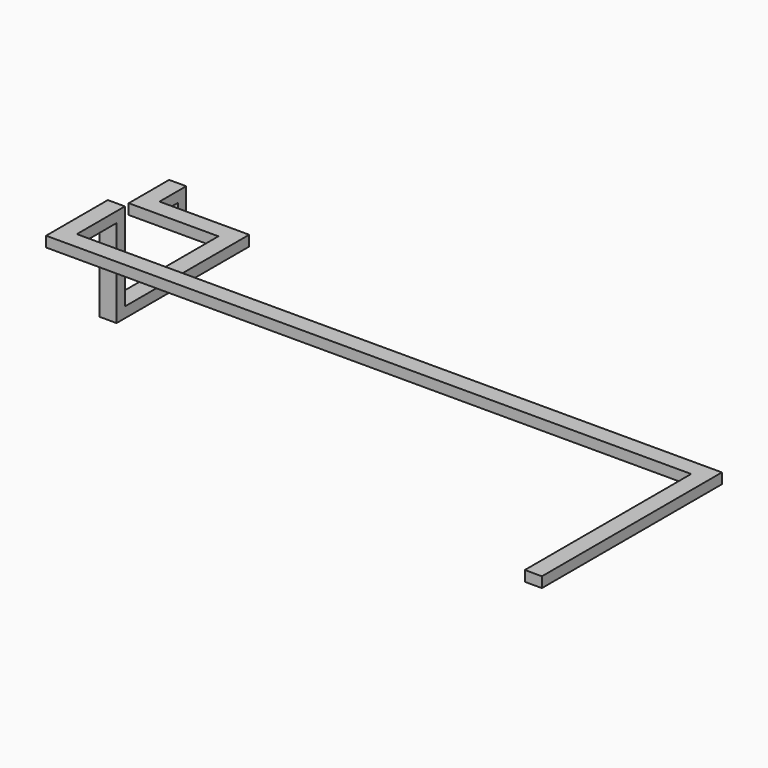
from build123d import *

# Parameters (mm, degrees)
F0_W      = 208.28
F0_H      = 127
F1_DEPTH  = 381
F2_W      = 208.28
F2_H      = 127
F3_DEPTH  = 1524
F4_DEPTH  = 1612.9
F5_W      = 208.28
F5_H      = 127
F6_DEPTH  = 863.6
F7_W      = 127
F7_H      = 208.28
F8_DEPTH  = 7112
F9_DEPTH  = 762
F10_DEPTH = 762
F11_DEPTH = 7112
F12_W     = 208.28
F12_H     = 127
F13_DEPTH = 762
F14_W     = 208.28
F14_H     = 127
F15_DEPTH = 5080
F16_DEPTH = 88.9
F17_DEPTH = 88.9
F18_DEPTH = 120.65
F19_DEPTH = 120.65
F20_DEPTH = 2312.35377
F21_W     = 208.28
F21_H     = 127
F22_DEPTH = 2583.34002
F23_DEPTH = 1557.02
F24_DEPTH = 1557.02
F25_W     = 208.28
F25_H     = 127
F26_DEPTH = 1092.2
F27_W     = 208.28
F27_H     = 127
F28_DEPTH = 1811.02
F29_W     = 208.28
F29_H     = 127
F30_DEPTH = 1073.15
F31_W     = 208.28
F31_H     = 127
F32_DEPTH = 553.72
F33_W     = 208.28
F33_H     = 127
F34_DEPTH = 1811.02
F35_DEPTH = 946.15
F36_DEPTH = 680.72
F37_DEPTH = 1092.2
F38_DEPTH = 76.2
F39_DEPTH = 76.2
F40_DEPTH = 50.8
F41_DEPTH = 50.8


with BuildPart() as f1:
    # F0 (on Top) → F1 (new body)
    with BuildSketch(Plane.XY):
        with Locations((104.14, 63.5)):
            Rectangle(F0_W, F0_H)
    extrude(amount=F1_DEPTH)

    # F2 (on face) → F3 (join)
    with BuildSketch(Plane.XZ):
        with Locations((104.14, 317.5)):
            Rectangle(F2_W, F2_H)
    extrude(amount=F3_DEPTH)

    # F4 (add): a face of the model
    f4_faces = [f1.faces().sort_by_distance(p)[0] for p in [
        (104.14, -1524, 317.5),
    ]]
    extrude(f4_faces, amount=F4_DEPTH)

    # F5 (on face) → F6 (join)
    with BuildSketch(Plane.XY.offset(381)):
        with Locations((104.14, -3073.4)):
            Rectangle(F5_W, F5_H)
    extrude(amount=F6_DEPTH)

    # F7 (on face) → F8 (join)
    with BuildSketch(Plane.YZ.offset(208.28)):
        with Locations((-3073.4, 1140.46)):
            Rectangle(F7_W, F7_H)
    extrude(amount=F8_DEPTH)

    # F9 (add): a face of the model
    f9_faces = [f1.faces().sort_by_distance(p)[0] for p in [
        (3367.9591082803, -3009.9, 1104.9808917197),
    ]]
    extrude(f9_faces, amount=F9_DEPTH)

    # F10 (cut): a face of the model
    f10_faces = [f1.faces().sort_by_distance(p)[0] for p in [
        (3316.8020689655, -3136.9, 1092.6379310345),
    ]]
    extrude(f10_faces, amount=-F10_DEPTH, mode=Mode.SUBTRACT)

    # F11 (cut, through all): a face of the model
    f11_faces = [f1.faces().sort_by_distance(p)[0] for p in [
        (7320.28, -2311.4, 1140.46),
    ]]
    extrude(f11_faces, amount=-F11_DEPTH, mode=Mode.SUBTRACT)

    # F12 (on face) → F13 (join)
    with BuildSketch(Plane.XZ.offset(2374.9)):
        with Locations((104.14, 1181.1)):
            Rectangle(F12_W, F12_H)
    extrude(amount=F13_DEPTH)

    # F14 (on face) → F15 (join)
    with BuildSketch(Plane.YZ.offset(208.28)):
        with Locations((-3032.76, 1181.1)):
            Rectangle(F14_W, F14_H)
    extrude(amount=F15_DEPTH)

    # F16 (add): a face of the model
    f16_faces = [f1.faces().sort_by_distance(p)[0] for p in [
        (2354.4719148936, -2982.0680851064, 1244.6),
    ]]
    extrude(f16_faces, amount=F16_DEPTH)

    # F17 (cut): a face of the model
    f17_faces = [f1.faces().sort_by_distance(p)[0] for p in [
        (2403.392173913, -2996.647826087, 1117.6),
    ]]
    extrude(f17_faces, amount=-F17_DEPTH, mode=Mode.SUBTRACT)

    # F18 (add): a face of the model
    f18_faces = [f1.faces().sort_by_distance(p)[0] for p in [
        (2354.4719148936, -2982.0680851064, 1333.5),
    ]]
    extrude(f18_faces, amount=F18_DEPTH)

    # F19 (cut): a face of the model
    f19_faces = [f1.faces().sort_by_distance(p)[0] for p in [
        (2403.392173913, -2996.647826087, 1206.5),
    ]]
    extrude(f19_faces, amount=-F19_DEPTH, mode=Mode.SUBTRACT)

    # F20 (add): a face of the model
    f20_faces = [f1.faces().sort_by_distance(p)[0] for p in [
        (5288.28, -3032.76, 1390.65),
    ]]
    extrude(f20_faces, amount=F20_DEPTH)

    # F21 (on face) → F22 (join)
    with BuildSketch(Plane.XZ.offset(3136.9)):
        with Locations((7496.49377, 1390.65)):
            Rectangle(F21_W, F21_H)
    extrude(amount=F22_DEPTH)

    # F23 (add): a face of the model
    f23_faces = [f1.faces().sort_by_distance(p)[0] for p in [
        (0, 63.5, 35.7317721818),
    ]]
    extrude(f23_faces, amount=F23_DEPTH)

    # F24 (cut): a face of the model
    f24_faces = [f1.faces().sort_by_distance(p)[0] for p in [
        (208.28, 63.5, 33.8398667357),
    ]]
    extrude(f24_faces, amount=-F24_DEPTH, mode=Mode.SUBTRACT)

    # F25 (on face) → F26 (join)
    with BuildSketch(Plane.YZ.offset(-1348.74)):
        with Locations((-459.74, 317.5)):
            Rectangle(F25_W, F25_H)
    extrude(amount=F26_DEPTH)

    # F27 (on face) → F28 (join, through all)
    with BuildSketch(Plane.XZ.offset(563.88)):
        with Locations((-360.68, 317.5)):
            Rectangle(F27_W, F27_H)
    extrude(amount=F28_DEPTH)

    # F29 (on face) → F30 (join, through all)
    with BuildSketch(Plane.XY.offset(381)):
        with Locations((-360.68, -2311.4)):
            Rectangle(F29_W, F29_H)
    extrude(amount=F30_DEPTH)

    # F31 (on face) → F32 (join, through all)
    with BuildSketch(Plane.XZ.offset(2374.9)):
        with Locations((-360.68, 1390.65)):
            Rectangle(F31_W, F31_H)
    extrude(amount=F32_DEPTH)

    # F33 (on face) → F34 (cut, through all)
    with BuildSketch(Plane.XZ.offset(2374.9)):
        with Locations((-1452.88, 317.5)):
            Rectangle(F33_W, F33_H)
    extrude(amount=-F34_DEPTH, mode=Mode.SUBTRACT)

    # F35 (cut, through all): a face of the model
    f35_faces = [f1.faces().sort_by_distance(p)[0] for p in [
        (-1452.88, -2311.4, 381),
    ]]
    extrude(f35_faces, amount=-F35_DEPTH, mode=Mode.SUBTRACT)

    # F36 (cut, through all): a face of the model
    f36_faces = [f1.faces().sort_by_distance(p)[0] for p in [
        (-1452.88, -2247.9, 1390.65),
    ]]
    extrude(f36_faces, amount=-F36_DEPTH, mode=Mode.SUBTRACT)

    # F37 (cut, through all): a face of the model
    f37_faces = [f1.faces().sort_by_distance(p)[0] for p in [
        (-1557.02, -3032.76, 1390.65),
    ]]
    extrude(f37_faces, amount=-F37_DEPTH, mode=Mode.SUBTRACT)

    # F38 (add): a face of the model
    f38_faces = [f1.faces().sort_by_distance(p)[0] for p in [
        (-1452.88, 0, 127),
    ]]
    extrude(f38_faces, amount=F38_DEPTH)

    # F39 (cut): a face of the model
    f39_faces = [f1.faces().sort_by_distance(p)[0] for p in [
        (-1452.88, 127, 190.5),
    ]]
    extrude(f39_faces, amount=-F39_DEPTH, mode=Mode.SUBTRACT)

    # F40 (add): a face of the model
    f40_faces = [f1.faces().sort_by_distance(p)[0] for p in [
        (3463.766885, -3136.9, 1390.65),
    ]]
    extrude(f40_faces, amount=F40_DEPTH)

    # F41 (cut): a face of the model
    f41_faces = [f1.faces().sort_by_distance(p)[0] for p in [
        (3672.046885, -2928.62, 1390.65),
    ]]
    extrude(f41_faces, amount=-F41_DEPTH, mode=Mode.SUBTRACT)


solid = f1.part
